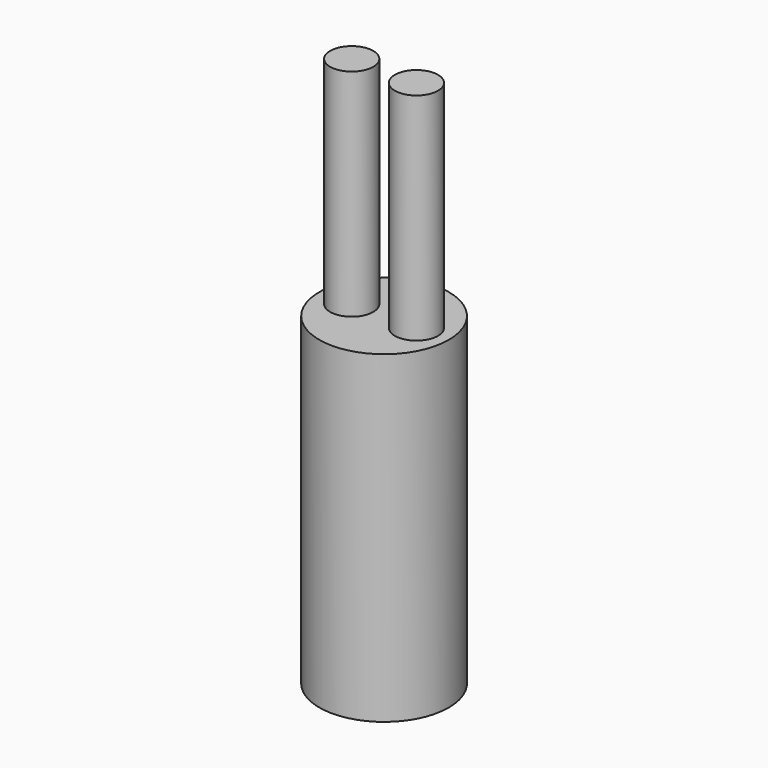
from build123d import *

# Parameters (mm, degrees)
F0_R     = 3
F1_DEPTH = 15
F2_R     = 1
F3_DEPTH = 10


with BuildPart() as f1:
    # F0 (on Top) → F1 (new body)
    with BuildSketch(Plane.XY):
        Circle(F0_R)
    extrude(amount=F1_DEPTH)

    # F2 (on face) → F3 (join)
    with BuildSketch(Plane.XY.offset(15)):
        with Locations((-1.5, 0)):
            Circle(F2_R)
        with Locations((1.5, 0)):
            Circle(F2_R)
    extrude(amount=F3_DEPTH)


solid = f1.part
